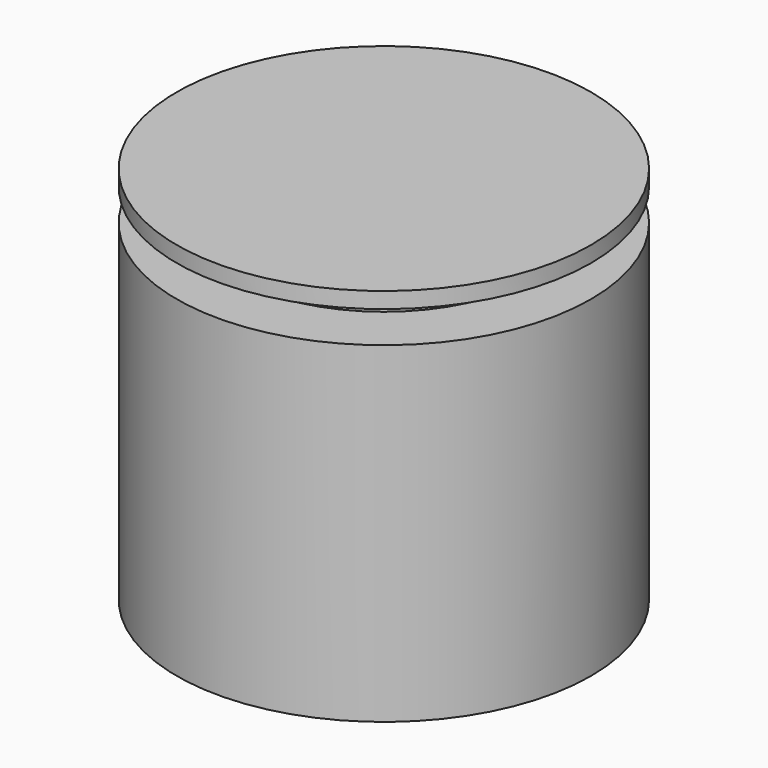
from build123d import *

# Parameters (mm, degrees)
F0_R     = 41.606036
F1_DEPTH = 76.2
F2_W     = 22.467411
F2_H     = 6.378767


with BuildPart() as f1:
    # F0 (on Top) → F1 (new body)
    with BuildSketch(Plane.XY):
        Circle(F0_R)
    extrude(amount=F1_DEPTH)

    # F2 (on Right) → F3 (revolve, cut)
    with BuildSketch(Plane.YZ):
        with Locations((41.508418, 69.811802)):
            Rectangle(F2_W, F2_H)
    revolve(axis=Axis((0, 0, 37.899476), (0, 0, -1)), mode=Mode.SUBTRACT)


solid = f1.part
